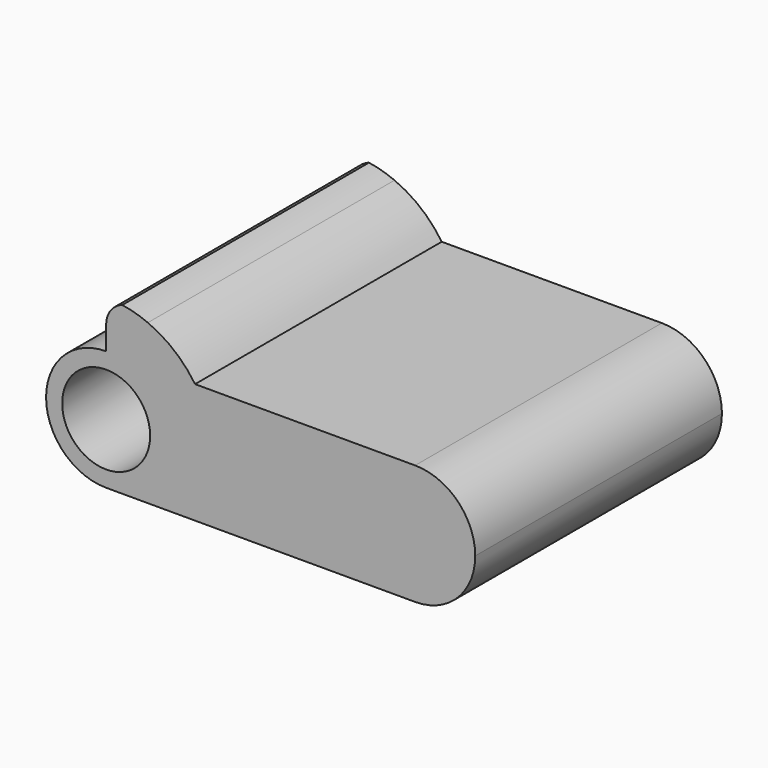
from build123d import *

# Parameters (mm, degrees)
F1_DEPTH = 14.37
F2_R     = 2.05
F3_DEPTH = 7.185


with BuildPart() as f1:
    # F0 (on Front) → F1 (new body)
    with BuildSketch(Plane.XZ):
        with BuildLine():
            ThreePointArc((5.6, 2.8), (6.4201010127, 0.8201010127), (8.4, 0))
            Line((8.4, 0), (11.6, 0))
            ThreePointArc((11.6, 0), (13.5798989873, 0.8201010127), (14.4, 2.8))
            ThreePointArc((14.4, 2.8), (15.2201010127, 4.7798989873), (17.2, 5.6))
            Line((17.2, 5.6), (6.9424630354, 5.6))
            Line((6.9424630354, 5.6), (3.9000000021, 5.6))
            Line((3.9000000021, 5.6), (2.8, 5.6))
            ThreePointArc((2.8, 5.6), (4.7798989873, 4.7798989873), (5.6, 2.8))
        make_face()
        with BuildLine():
            ThreePointArc((14.4, 2.8), (15.2201010127, 0.8201010127), (17.2, 0))
            Line((17.2, 0), (17.2, 0.8))
            ThreePointArc((17.2, 0.8), (15.2, 2.8), (17.2, 4.8))
            Line((17.2, 4.8), (17.2, 5.6))
            ThreePointArc((17.2, 5.6), (15.2201010127, 4.7798989873), (14.4, 2.8))
        make_face()
        with BuildLine():
            ThreePointArc((17.2, 4.8), (15.2, 2.8), (17.2, 0.8))
            Line((17.2, 0.8), (17.2, 4.8))
        make_face()
        with BuildLine():
            ThreePointArc((14.4, 2.8), (13.5798989873, 0.8201010127), (11.6, 0))
            Line((11.6, 0), (17.2, 0))
            ThreePointArc((17.2, 0), (15.2201010127, 0.8201010127), (14.4, 2.8))
        make_face()
        with BuildLine():
            ThreePointArc((2.8, 6.7), (3.1221825414, 5.92218254), (3.9000000021, 5.6))
            ThreePointArc((3.9000000021, 5.6), (4.8969874345, 6.2352247258), (4.7425001981, 7.4072435339))
            ThreePointArc((4.7425001981, 7.4072435339), (4.1573008251, 7.6122483799), (3.5512269639, 7.7432436768))
            ThreePointArc((3.5512269639, 7.7432436768), (3.0073493573, 7.3427867688), (2.8, 6.7))
        make_face()
        with BuildLine():
            ThreePointArc((4.7425001981, 7.4072435339), (4.8969874345, 6.2352247258), (3.9000000021, 5.6))
            Line((3.9000000021, 5.6), (6.9424630354, 5.6))
            ThreePointArc((6.9424630354, 5.6), (5.9738346973, 6.6635182559), (4.7425001981, 7.4072435339))
        make_face()
        with BuildLine():
            Line((2.8, 6.7), (2.8, 5.6))
            Line((2.8, 5.6), (3.9000000021, 5.6))
            ThreePointArc((3.9000000021, 5.6), (3.1221825414, 5.92218254), (2.8, 6.7))
        make_face()
        with BuildLine():
            Line((17.2, 0.8), (17.2, 0))
            ThreePointArc((17.2, 0), (19.1798989873, 0.8201010127), (20, 2.8))
            ThreePointArc((20, 2.8), (19.1798989873, 4.7798989873), (17.2, 5.6))
            Line((17.2, 5.6), (17.2, 4.8))
            Line((17.2, 4.8), (17.2, 0.8))
        make_face()
    extrude(amount=F1_DEPTH)

    # F2 (on face) → F3 (join)
    with BuildSketch(Plane.XZ.offset(14.37)):
        with BuildLine():
            ThreePointArc((2.8, 0), (4.7798989873, 0.8201010127), (5.6, 2.8))
            ThreePointArc((5.6, 2.8), (4.7798989873, 4.7798989873), (2.8, 5.6))
            ThreePointArc((2.8, 5.6), (0, 2.8), (2.8, 0))
        make_face()
        with Locations((2.8, 2.8)):
            Circle(F2_R, mode=Mode.SUBTRACT)
        with BuildLine():
            ThreePointArc((8.4, 0), (6.4201010127, 0.8201010127), (5.6, 2.8))
            ThreePointArc((5.6, 2.8), (4.7798989873, 0.8201010127), (2.8, 0))
            Line((2.8, 0), (8.4, 0))
        make_face()
    extrude(amount=-F3_DEPTH)


solid = f1.part
